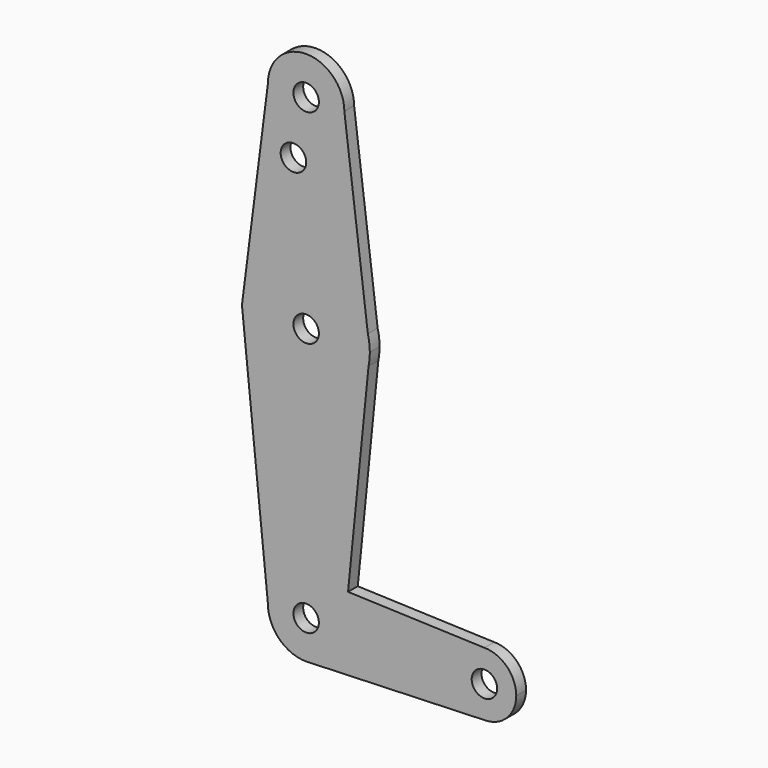
from build123d import *

# Parameters (mm, degrees)
F0_R     = 3.175
F1_DEPTH = 3.048


with BuildPart() as f1:
    # F0 (on Front) → F1 (new body)
    with BuildSketch(Plane.XZ):
        with BuildLine():
            ThreePointArc((-9.525, 114.3), (0, 104.775), (9.525, 114.3))
            ThreePointArc((9.525, 114.3), (0, 123.825), (-9.525, 114.3))
        make_face()
        with Locations((0, 114.3)):
            Circle(F0_R, mode=Mode.SUBTRACT)
        with BuildLine():
            Line((15.3865384615, 67.4076923077), (9.525, 114.3))
            ThreePointArc((9.525, 114.3), (0, 104.775), (-9.525, 114.3))
            Line((-9.525, 114.3), (-15.7474568899, 65.5082894468))
            ThreePointArc((-15.7474568899, 65.5082894468), (-0.9666945407, 79.3455396457), (15.3865384615, 67.4076923077))
        make_face()
        with Locations((-3.175, 100.0252)):
            Circle(F0_R, mode=Mode.SUBTRACT)
        with BuildLine():
            Line((15.875, 63.5), (15.3865384615, 67.4076923077))
            ThreePointArc((15.3865384615, 67.4076923077), (-0.9666945407, 79.3455396457), (-15.7474568899, 65.5082894468))
            ThreePointArc((-15.7474568899, 65.5082894468), (-2.5776198725, 47.8356614952), (15.5606435644, 60.3564356436))
            Line((15.5606435644, 60.3564356436), (15.875, 63.5))
        make_face()
        with Locations((0, 63.5)):
            Circle(F0_R, mode=Mode.SUBTRACT)
        with BuildLine():
            ThreePointArc((15.875, 63.5), (15.7524112928, 65.4690514116), (15.3865384615, 67.4076923077))
            Line((15.3865384615, 67.4076923077), (15.875, 63.5))
        make_face()
        with BuildLine():
            ThreePointArc((15.5606435644, 60.3564356436), (-2.5776198725, 47.8356614952), (-15.7474568899, 65.5082894468))
            Line((-15.7474568899, 65.5082894468), (-16.0035761028, 63.5))
            Line((-16.0035761028, 63.5), (-9.525, 0))
            ThreePointArc((-9.525, 0), (-6.7351920908, 6.7351920908), (0, 9.525))
            ThreePointArc((0, 9.525), (0.3399618281, 9.5189311877), (0.6794904459, 9.5007324841))
            Line((0.6794904459, 9.5007324841), (10.4402135231, 9.1521352313))
            Line((10.4402135231, 9.1521352313), (15.5606435644, 60.3564356436))
        make_face()
        with BuildLine():
            ThreePointArc((15.5606435644, 60.3564356436), (15.7962153946, 61.9203784605), (15.875, 63.5))
            Line((15.875, 63.5), (15.5606435644, 60.3564356436))
        make_face()
        with BuildLine():
            Line((44.45, 7.9375), (10.4402135231, 9.1521352313))
            Line((10.4402135231, 9.1521352313), (9.525, 0))
            ThreePointArc((9.525, 0), (6.9712901065, -6.4905114784), (0.6794904459, -9.5007324841))
            Line((0.6794904459, -9.5007324841), (44.45, -7.9375))
            ThreePointArc((44.45, -7.9375), (36.5125, 0), (44.45, 7.9375))
        make_face()
        with BuildLine():
            Line((9.525, 0), (10.4402135231, 9.1521352313))
            Line((10.4402135231, 9.1521352313), (0.6794904459, 9.5007324841))
            ThreePointArc((0.6794904459, 9.5007324841), (6.9712901065, 6.4905114784), (9.525, 0))
        make_face()
        with BuildLine():
            ThreePointArc((0, 9.525), (-6.7351920908, 6.7351920908), (-9.525, 0))
            ThreePointArc((-9.525, 0), (-6.7351920908, -6.7351920908), (0, -9.525))
            Line((0, -9.525), (0.6794904459, -9.5007324841))
            ThreePointArc((0.6794904459, -9.5007324841), (6.9712901065, -6.4905114784), (9.525, 0))
            ThreePointArc((9.525, 0), (6.9712901065, 6.4905114784), (0.6794904459, 9.5007324841))
            Line((0.6794904459, 9.5007324841), (0, 9.525))
        make_face()
        Circle(F0_R, mode=Mode.SUBTRACT)
        with BuildLine():
            ThreePointArc((52.3875, 0), (50.0626600757, 5.6126600757), (44.45, 7.9375))
            ThreePointArc((44.45, 7.9375), (36.5125, 0), (44.45, -7.9375))
            ThreePointArc((44.45, -7.9375), (50.0626600757, -5.6126600757), (52.3875, 0))
        make_face()
        with Locations((44.45, 0)):
            Circle(F0_R, mode=Mode.SUBTRACT)
        with BuildLine():
            Line((0.6794904459, -9.5007324841), (0, -9.525))
            ThreePointArc((0, -9.525), (0.3399618281, -9.5189311877), (0.6794904459, -9.5007324841))
        make_face()
    extrude(amount=F1_DEPTH)


solid = f1.part
